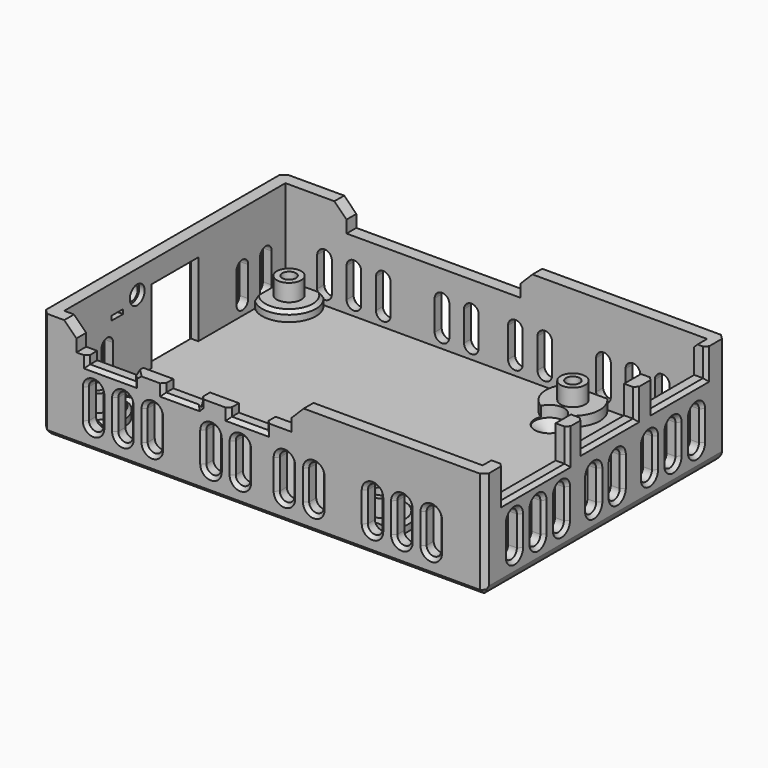
from build123d import *

# Parameters (mm, degrees)
SKETCH116_W     = 90.5
SKETCH116_H     = 61.5
PAD047_DEPTH    = 16.9
SKETCH115_W     = 85.5
SKETCH115_H     = 56.5
POCKET030_DEPTH = 14.4
PAD046_DEPTH    = 5
CHAMFER022_SIZE = 2.49
SKETCH118_W     = 9.4
SKETCH118_H     = 3.4
SKETCH118_W_2   = 7.5
POCKET031_DEPTH = 2.5
CHAMFER023_SIZE = 0.7
SKETCH119_W     = 13.6
SKETCH119_H     = 14.7
SKETCH119_W_2   = 16.4
SKETCH119_H_2   = 13.5
POCKET032_DEPTH = 2.5
CHAMFER024_SIZE = 0.7
SKETCH120_W     = 12
SKETCH120_H     = 15.1
POCKET033_DEPTH = 2.5
SKETCH121_W     = 3
SKETCH121_H     = 0.9
POCKET034_DEPTH = 2.5
CHAMFER025_SIZE = 0.7
CHAMFER026_SIZE = 1
SKETCH122_R     = 5.5
PAD048_DEPTH    = 2
CHAMFER027_SIZE = 0.675
SKETCH123_R     = 2.5
PAD049_DEPTH    = 3.5
CHAMFER028_SIZE = 0.675
SKETCH124_R     = 1.4
POCKET035_DEPTH = 8.001
SKETCH125_R     = 2.5
POCKET036_DEPTH = 2
SKETCH126_R     = 1.9
POCKET037_DEPTH = 1.1
SKETCH127_R     = 1.5
POCKET038_DEPTH = 5
SKETCH128_R     = 3
HOLE002_DEPTH   = 3.5
HOLE002_TIPS_R  = 3
POCKET039_DEPTH = 2.5
POCKET040_DEPTH = 2.5
POCKET041_DEPTH = 2.5
POCKET042_DEPTH = 2.5
CHAMFER029_SIZE = 0.7


with BuildPart() as part:
    # Sketch116 → Pad047 (new body)
    with BuildSketch(Plane.XY):
        with Locations((45.25, 30.75)):
            Rectangle(SKETCH116_W, SKETCH116_H)
    extrude(amount=PAD047_DEPTH)

    # Sketch115 → Pocket030 (cut)
    with BuildSketch(Plane.XY.offset(16.9)):
        with Locations((45.25, 30.75)):
            Rectangle(SKETCH115_W, SKETCH115_H)
    extrude(amount=-POCKET030_DEPTH, mode=Mode.SUBTRACT)

    # Sketch117 → Pad046 (join)
    with BuildSketch(Plane.XY.offset(16.9)):
        Polygon((15, 61.5), (0, 61.5), (0, 0), (7, 0), (7, 2.5), (2.5, 2.5), (2.5, 59), (15, 59), align=None)
        Polygon((50.5, 61.5), (90.5, 61.5), (90.5, 0), (50.95, 0), (50.95, 2.5), (88, 2.5), (88, 59), (50.5, 59), align=None)
    extrude(amount=PAD046_DEPTH)

    # Chamfer022
    chamfer022_edges = [part.edges().sort_by_distance(p)[0] for p in [
        (7, 1.25, 21.9),
        (15, 60.25, 21.9),
        (50.5, 60.25, 21.9),
        (50.95, 1.25, 21.9),
    ]]
    chamfer(chamfer022_edges, length=CHAMFER022_SIZE)

    # Sketch118 → Pocket031 (cut)
    with BuildSketch(Plane.XZ):
        with Locations((13.95, 16.9)):
            Rectangle(SKETCH118_W, SKETCH118_H)
        with Locations((28.55, 16.9)):
            Rectangle(SKETCH118_W_2, SKETCH118_H)
        with Locations((41.95, 16.9)):
            Rectangle(SKETCH118_W_2, SKETCH118_H)
    extrude(amount=-POCKET031_DEPTH, mode=Mode.SUBTRACT)

    # Chamfer023
    chamfer023_edges = [part.edges().sort_by_distance(p)[0] for p in [
        (9.25, 0, 16.05),
        (13.95, 0, 15.2),
        (18.65, 0, 16.05),
        (24.8, 0, 16.05),
        (28.55, 0, 15.2),
        (32.3, 0, 16.05),
        (38.2, 0, 16.05),
        (41.95, 0, 15.2),
        (45.7, 0, 16.05),
    ]]
    chamfer(chamfer023_edges, length=CHAMFER023_SIZE)

    # Sketch119 → Pocket032 (cut)
    with BuildSketch(Plane.YZ.offset(90.5)):
        with Locations((49.75, 23.55)):
            Rectangle(SKETCH119_W, SKETCH119_H)
        with Locations((31.85, 23.55)):
            Rectangle(SKETCH119_W, SKETCH119_H)
        with Locations((12.95, 21.95)):
            Rectangle(SKETCH119_W_2, SKETCH119_H_2)
    extrude(amount=-POCKET032_DEPTH, mode=Mode.SUBTRACT)

    # Chamfer024
    chamfer024_edges = [part.edges().sort_by_distance(p)[0] for p in [
        (90.5, 4.75, 16.05),
        (90.5, 12.95, 15.2),
        (90.5, 21.15, 16.05),
        (90.5, 25.05, 16.55),
        (90.5, 31.85, 16.2),
        (90.5, 38.65, 16.55),
        (90.5, 42.95, 16.55),
        (90.5, 49.75, 16.2),
        (90.5, 56.55, 16.55),
    ]]
    chamfer(chamfer024_edges, length=CHAMFER024_SIZE)

    # Sketch120 → Pocket033 (cut)
    with BuildSketch(Plane.YZ):
        with Locations((30.75, 10.05)):
            Rectangle(SKETCH120_W, SKETCH120_H)
    extrude(amount=POCKET033_DEPTH, mode=Mode.SUBTRACT)

    # Sketch121 → Pocket034 (cut)
    with BuildSketch(Plane.YZ):
        with Locations((16.05, 15.65)):
            Rectangle(SKETCH121_W, SKETCH121_H)
    extrude(amount=POCKET034_DEPTH, mode=Mode.SUBTRACT)

    # Chamfer025
    chamfer025_edges = [part.edges().sort_by_distance(p)[0] for p in [
        (0, 16.05, 16.1),
        (0, 14.55, 15.65),
        (0, 16.05, 15.2),
        (19, 0.35, 16.9),
    ]]
    chamfer(chamfer025_edges, length=CHAMFER025_SIZE)

    # Chamfer026
    chamfer026_edges = [part.edges().sort_by_distance(p)[0] for p in [
        (0, 61.5, 8.45),
        (0, 30.75, 0),
        (0, 0, 8.45),
        (45.25, 0, 0),
        (90.5, 0, 8.45),
        (45.25, 61.5, 0),
        (90.5, 61.5, 8.45),
        (90.5, 30.75, 0),
        (0, 30.75, 17.6),
        (0, 24.75, 9.7),
        (0, 36.75, 9.7),
        (0, 30.75, 2.5),
    ]]
    chamfer(chamfer026_edges, length=CHAMFER026_SIZE)

    # Sketch122 → Pad048 (join)
    with BuildSketch(Plane.XY.offset(2.5)):
        with Locations((6.25, 55.25)):
            Circle(SKETCH122_R)
        with Locations((6.25, 6.25)):
            Circle(SKETCH122_R)
        with Locations((64.25, 55.25)):
            Circle(SKETCH122_R)
        with Locations((64.25, 6.25)):
            Circle(SKETCH122_R)
    extrude(amount=PAD048_DEPTH)

    # Chamfer027
    chamfer027_edges = [part.edges().sort_by_distance(p)[0] for p in [
        (88, 57.775, 21.9),
        (8.443741, 50.20644, 4.5),
        (69.367545, 4.234874, 4.5),
        (8.443741, 11.29356, 4.5),
    ]]
    chamfer(chamfer027_edges, length=CHAMFER027_SIZE)

    # Sketch123 → Pad049 (join)
    with BuildSketch(Plane.XY.offset(4.5)):
        with Locations((6.25, 55.25)):
            Circle(SKETCH123_R)
        with Locations((6.25, 6.25)):
            Circle(SKETCH123_R)
        with Locations((64.25, 55.25)):
            Circle(SKETCH123_R)
        with Locations((64.25, 6.25)):
            Circle(SKETCH123_R)
    extrude(amount=PAD049_DEPTH)

    # Chamfer028
    chamfer028_edges = [part.edges().sort_by_distance(p)[0] for p in [
        (1, 24.75, 17.25),
        (90.5, 30.75, 1),
        (50.5, 61.5, 18.155),
        (32.65, 0.35, 14.85),
    ]]
    chamfer(chamfer028_edges, length=CHAMFER028_SIZE)

    # Sketch124 → Pocket035 (cut, through all)
    with BuildSketch(Plane.XY.offset(8)):
        with Locations((6.25, 55.25)):
            Circle(SKETCH124_R)
        with Locations((6.25, 6.25)):
            Circle(SKETCH124_R)
        with Locations((64.25, 55.25)):
            Circle(SKETCH124_R)
        with Locations((64.25, 6.25)):
            Circle(SKETCH124_R)
    extrude(amount=-POCKET035_DEPTH, mode=Mode.SUBTRACT)

    # Sketch125 → Pocket036 (cut)
    with BuildSketch(Plane.XY):
        with Locations((6.25, 55.25)):
            Circle(SKETCH125_R)
        with Locations((6.25, 6.25)):
            Circle(SKETCH125_R)
        with Locations((64.25, 55.25)):
            Circle(SKETCH125_R)
        with Locations((64.25, 6.25)):
            Circle(SKETCH125_R)
    extrude(amount=POCKET036_DEPTH, mode=Mode.SUBTRACT)

    # Sketch126 → Pocket037 (cut)
    with BuildSketch(Plane.YZ.offset(2.5)):
        with Locations((21.15, 17.2)):
            Circle(SKETCH126_R)
    extrude(amount=-POCKET037_DEPTH, mode=Mode.SUBTRACT)

    # Sketch127 → Pocket038 (cut)
    with BuildSketch(Plane.YZ):
        with Locations((21.15, 17.2)):
            Circle(SKETCH127_R)
    extrude(amount=POCKET038_DEPTH, mode=Mode.SUBTRACT)

    # Sketch128 → Hole002 (cut)
    with BuildSketch(Plane.XY.offset(5.7)):
        with Locations((6.25, 12.25)):
            Circle(SKETCH128_R)
        with Locations((64.25, 49.25)):
            Circle(SKETCH128_R)
    extrude(amount=-HOLE002_DEPTH, mode=Mode.SUBTRACT)

    # Hole002 tips → Hole002 tip 1 section 0
    with BuildSketch(Plane.XY.offset(2.2), mode=Mode.PRIVATE) as hole002_tip_1_s0:
        with Locations((6.25, 12.25)):
            Circle(HOLE002_TIPS_R)
    loft([hole002_tip_1_s0.sketch, Vertex(6.25, 12.25, 0.397418)], mode=Mode.SUBTRACT)

    # Hole002 tips → Hole002 tip 2 section 0
    with BuildSketch(Plane.XY.offset(2.2), mode=Mode.PRIVATE) as hole002_tip_2_s0:
        with Locations((64.25, 49.25)):
            Circle(HOLE002_TIPS_R)
    loft([hole002_tip_2_s0.sketch, Vertex(64.25, 49.25, 0.397418)], mode=Mode.SUBTRACT)

    # Sketch129 → Pocket039 (cut)
    with BuildSketch(Plane.XZ):
        with BuildLine():
            ThreePointArc((12, 11.1), (10.5, 12.6), (9, 11.1))
            Line((9, 11.1), (9, 5))
            ThreePointArc((9, 5), (10.5, 3.5), (12, 5))
            Line((12, 5), (12, 11.1))
        make_face()
        with BuildLine():
            ThreePointArc((18, 11.1), (16.5, 12.6), (15, 11.1))
            Line((15, 11.1), (15, 5))
            ThreePointArc((15, 5), (16.5, 3.5), (18, 5))
            Line((18, 5), (18, 11.1))
        make_face()
        with BuildLine():
            ThreePointArc((24, 11.1), (22.5, 12.6), (21, 11.1))
            Line((21, 11.1), (21, 5))
            ThreePointArc((21, 5), (22.5, 3.5), (24, 5))
            Line((24, 5), (24, 11.1))
        make_face()
        with BuildLine():
            ThreePointArc((36, 11.1), (34.5, 12.6), (33, 11.1))
            Line((33, 11.1), (33, 5))
            ThreePointArc((33, 5), (34.5, 3.5), (36, 5))
            Line((36, 5), (36, 11.1))
        make_face()
        with BuildLine():
            ThreePointArc((42, 11.1), (40.5, 12.6), (39, 11.1))
            Line((39, 11.1), (39, 5))
            ThreePointArc((39, 5), (40.5, 3.5), (42, 5))
            Line((42, 5), (42, 11.1))
        make_face()
        with BuildLine():
            ThreePointArc((51, 11.1), (49.5, 12.6), (48, 11.1))
            Line((48, 11.1), (48, 5))
            ThreePointArc((48, 5), (49.5, 3.5), (51, 5))
            Line((51, 5), (51, 11.1))
        make_face()
        with BuildLine():
            ThreePointArc((57, 11.1), (55.5, 12.6), (54, 11.1))
            Line((54, 11.1), (54, 5))
            ThreePointArc((54, 5), (55.5, 3.5), (57, 5))
            Line((57, 5), (57, 11.1))
        make_face()
        with BuildLine():
            ThreePointArc((69, 11.1), (67.5, 12.6), (66, 11.1))
            Line((66, 11.1), (66, 5))
            ThreePointArc((66, 5), (67.5, 3.5), (69, 5))
            Line((69, 5), (69, 11.1))
        make_face()
        with BuildLine():
            ThreePointArc((75, 11.1), (73.5, 12.6), (72, 11.1))
            Line((72, 11.1), (72, 5))
            ThreePointArc((72, 5), (73.5, 3.5), (75, 5))
            Line((75, 5), (75, 11.1))
        make_face()
        with BuildLine():
            ThreePointArc((81, 11.1), (79.5, 12.6), (78, 11.1))
            Line((78, 11.1), (78, 5))
            ThreePointArc((78, 5), (79.5, 3.5), (81, 5))
            Line((81, 5), (81, 11.1))
        make_face()
    extrude(amount=-POCKET039_DEPTH, mode=Mode.SUBTRACT)

    # Sketch132 → Pocket040 (cut)
    with BuildSketch(Plane.YZ.offset(90.5)):
        with BuildLine():
            ThreePointArc((55.5, 11.1), (54, 12.6), (52.5, 11.1))
            Line((52.5, 11.1), (52.5, 5))
            ThreePointArc((52.5, 5), (54, 3.5), (55.5, 5))
            Line((55.5, 5), (55.5, 11.1))
        make_face()
        with BuildLine():
            ThreePointArc((49.5, 11.1), (48, 12.6), (46.5, 11.1))
            Line((46.5, 11.1), (46.5, 5))
            ThreePointArc((46.5, 5), (48, 3.5), (49.5, 5))
            Line((49.5, 5), (49.5, 11.1))
        make_face()
        with BuildLine():
            ThreePointArc((9, 11.1), (7.5, 12.6), (6, 11.1))
            Line((6, 11.1), (6, 5))
            ThreePointArc((6, 5), (7.5, 3.5), (9, 5))
            Line((9, 5), (9, 11.1))
        make_face()
        with BuildLine():
            ThreePointArc((15, 11.1), (13.5, 12.6), (12, 11.1))
            Line((12, 11.1), (12, 5))
            ThreePointArc((12, 5), (13.5, 3.5), (15, 5))
            Line((15, 5), (15, 11.1))
        make_face()
        with BuildLine():
            ThreePointArc((21, 11.1), (19.5, 12.6), (18, 11.1))
            Line((18, 11.1), (18, 5))
            ThreePointArc((18, 5), (19.5, 3.5), (21, 5))
            Line((21, 5), (21, 11.1))
        make_face()
        with BuildLine():
            ThreePointArc((43.5, 11.1), (42, 12.6), (40.5, 11.1))
            Line((40.5, 11.1), (40.5, 5))
            ThreePointArc((40.5, 5), (42, 3.5), (43.5, 5))
            Line((43.5, 5), (43.5, 11.1))
        make_face()
        with BuildLine():
            ThreePointArc((29.25, 11.1), (27.75, 12.6), (26.25, 11.1))
            Line((26.25, 11.1), (26.25, 5))
            ThreePointArc((26.25, 5), (27.75, 3.5), (29.25, 5))
            Line((29.25, 5), (29.25, 11.1))
        make_face()
        with BuildLine():
            ThreePointArc((35.25, 11.1), (33.75, 12.6), (32.25, 11.1))
            Line((32.25, 11.1), (32.25, 5))
            ThreePointArc((32.25, 5), (33.75, 3.5), (35.25, 5))
            Line((35.25, 5), (35.25, 11.1))
        make_face()
    extrude(amount=-POCKET040_DEPTH, mode=Mode.SUBTRACT)

    # Sketch131 → Pocket041 (cut)
    with BuildSketch(Plane.YZ):
        with BuildLine():
            ThreePointArc((55.5, 11.1), (54, 12.6), (52.5, 11.1))
            Line((52.5, 11.1), (52.5, 5))
            ThreePointArc((52.5, 5), (54, 3.5), (55.5, 5))
            Line((55.5, 5), (55.5, 11.1))
        make_face()
        with BuildLine():
            ThreePointArc((49.5, 11.1), (48, 12.6), (46.5, 11.1))
            Line((46.5, 11.1), (46.5, 5))
            ThreePointArc((46.5, 5), (48, 3.5), (49.5, 5))
            Line((49.5, 5), (49.5, 11.1))
        make_face()
        with BuildLine():
            ThreePointArc((9, 11.1), (7.5, 12.6), (6, 11.1))
            Line((6, 11.1), (6, 5))
            ThreePointArc((6, 5), (7.5, 3.5), (9, 5))
            Line((9, 5), (9, 11.1))
        make_face()
        with BuildLine():
            ThreePointArc((15, 11.1), (13.5, 12.6), (12, 11.1))
            Line((12, 11.1), (12, 5))
            ThreePointArc((12, 5), (13.5, 3.5), (15, 5))
            Line((15, 5), (15, 11.1))
        make_face()
    extrude(amount=POCKET041_DEPTH, mode=Mode.SUBTRACT)

    # Sketch130 → Pocket042 (cut)
    with BuildSketch(Plane.XZ.offset(-61.5)):
        with BuildLine():
            ThreePointArc((12, 11.1), (10.5, 12.6), (9, 11.1))
            Line((9, 11.1), (9, 5))
            ThreePointArc((9, 5), (10.5, 3.5), (12, 5))
            Line((12, 5), (12, 11.1))
        make_face()
        with BuildLine():
            ThreePointArc((18, 11.1), (16.5, 12.6), (15, 11.1))
            Line((15, 11.1), (15, 5))
            ThreePointArc((15, 5), (16.5, 3.5), (18, 5))
            Line((18, 5), (18, 11.1))
        make_face()
        with BuildLine():
            ThreePointArc((24, 11.1), (22.5, 12.6), (21, 11.1))
            Line((21, 11.1), (21, 5))
            ThreePointArc((21, 5), (22.5, 3.5), (24, 5))
            Line((24, 5), (24, 11.1))
        make_face()
        with BuildLine():
            ThreePointArc((36, 11.1), (34.5, 12.6), (33, 11.1))
            Line((33, 11.1), (33, 5))
            ThreePointArc((33, 5), (34.5, 3.5), (36, 5))
            Line((36, 5), (36, 11.1))
        make_face()
        with BuildLine():
            ThreePointArc((42, 11.1), (40.5, 12.6), (39, 11.1))
            Line((39, 11.1), (39, 5))
            ThreePointArc((39, 5), (40.5, 3.5), (42, 5))
            Line((42, 5), (42, 11.1))
        make_face()
        with BuildLine():
            ThreePointArc((51, 11.1), (49.5, 12.6), (48, 11.1))
            Line((48, 11.1), (48, 5))
            ThreePointArc((48, 5), (49.5, 3.5), (51, 5))
            Line((51, 5), (51, 11.1))
        make_face()
        with BuildLine():
            ThreePointArc((57, 11.1), (55.5, 12.6), (54, 11.1))
            Line((54, 11.1), (54, 5))
            ThreePointArc((54, 5), (55.5, 3.5), (57, 5))
            Line((57, 5), (57, 11.1))
        make_face()
        with BuildLine():
            ThreePointArc((69, 11.1), (67.5, 12.6), (66, 11.1))
            Line((66, 11.1), (66, 5))
            ThreePointArc((66, 5), (67.5, 3.5), (69, 5))
            Line((69, 5), (69, 11.1))
        make_face()
        with BuildLine():
            ThreePointArc((75, 11.1), (73.5, 12.6), (72, 11.1))
            Line((72, 11.1), (72, 5))
            ThreePointArc((72, 5), (73.5, 3.5), (75, 5))
            Line((75, 5), (75, 11.1))
        make_face()
        with BuildLine():
            ThreePointArc((81, 11.1), (79.5, 12.6), (78, 11.1))
            Line((78, 11.1), (78, 5))
            ThreePointArc((78, 5), (79.5, 3.5), (81, 5))
            Line((81, 5), (81, 11.1))
        make_face()
    extrude(amount=POCKET042_DEPTH, mode=Mode.SUBTRACT)

    # Chamfer029
    chamfer029_edges = [part.edges().sort_by_distance(p)[0] for p in [
        (90.5, 7.5, 3.5),
        (90.5, 13.5, 3.5),
        (90.5, 19.5, 3.5),
        (90.5, 27.75, 3.5),
        (90.5, 33.75, 3.5),
        (90.5, 42, 3.5),
        (90.5, 48, 3.5),
        (90.5, 54, 3.5),
        (79.5, 61.5, 3.5),
        (73.5, 61.5, 3.5),
        (67.5, 61.5, 3.5),
        (55.5, 61.5, 3.5),
        (49.5, 61.5, 3.5),
        (40.5, 61.5, 3.5),
        (34.5, 61.5, 3.5),
        (22.5, 61.5, 3.5),
        (16.5, 61.5, 3.5),
        (10.5, 61.5, 3.5),
        (0, 7.5, 3.5),
        (0, 13.5, 3.5),
        (0, 48, 3.5),
        (0, 54, 3.5),
        (10.5, 0, 3.5),
        (16.5, 0, 3.5),
        (22.5, 0, 3.5),
        (34.5, 0, 3.5),
        (40.5, 0, 3.5),
        (49.5, 0, 3.5),
        (55.5, 0, 3.5),
        (67.5, 0, 3.5),
        (73.5, 0, 3.5),
        (79.5, 0, 3.5),
    ]]
    chamfer(chamfer029_edges, length=CHAMFER029_SIZE)


solid = part.part
